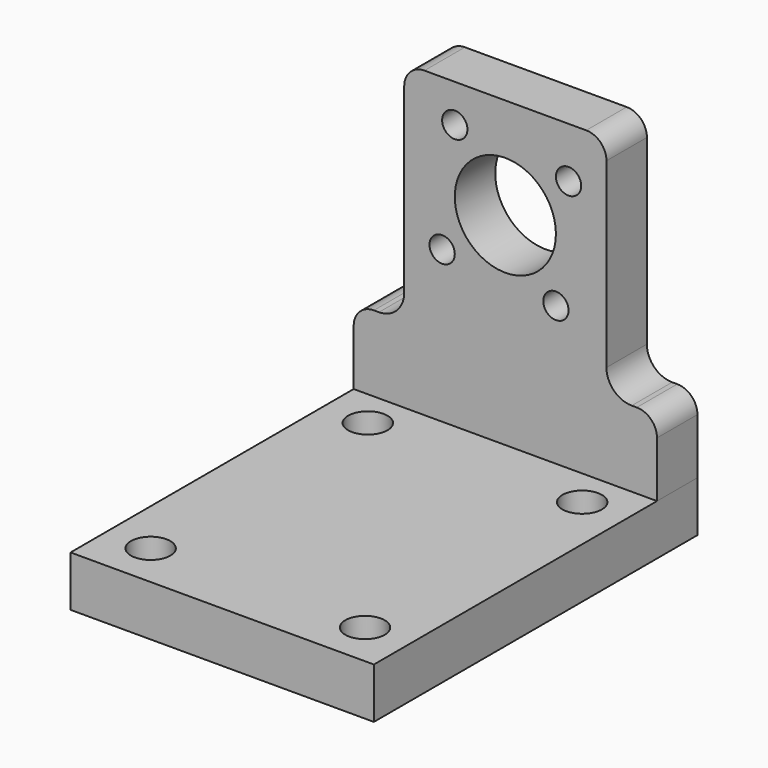
from build123d import *

# Parameters (mm, degrees)
F0_W     = 76.2
F0_H     = 101.6
F0_R     = 4.953
F1_DEPTH = 12.7
F2_R     = 3.175
F2_R_2   = 12.7
F3_DEPTH = 12.7


with BuildPart() as f1:
    # F0 (on Top) → F1 (new body)
    with BuildSketch(Plane.XY):
        with Locations((38.1, -50.8)):
            Rectangle(F0_W, F0_H)
        with Locations((11.176, -90.424)):
            Circle(F0_R, mode=Mode.SUBTRACT)
        with Locations((65.024, -90.424)):
            Circle(F0_R, mode=Mode.SUBTRACT)
        with Locations((11.176, -22.225)):
            Circle(F0_R, mode=Mode.SUBTRACT)
        with Locations((65.024, -22.225)):
            Circle(F0_R, mode=Mode.SUBTRACT)
    extrude(amount=-F1_DEPTH)


with BuildPart() as f3:
    # F2 (on Front) → F3 (new body)
    with BuildSketch(Plane.XZ):
        with BuildLine():
            Line((0, 13.97), (0, 0))
            Line((0, 0), (76.2, 0))
            Line((76.2, 0), (76.2, 13.97))
            ThreePointArc((76.2, 13.97), (74.712102, 17.562102), (71.12, 19.05))
            Line((71.12, 19.05), (69.85, 19.05))
            ThreePointArc((69.85, 19.05), (65.359872, 20.909872), (63.5, 25.4))
            Line((63.5, 25.4), (63.5, 71.12))
            ThreePointArc((63.5, 71.12), (62.012102, 74.712102), (58.42, 76.2))
            Line((58.42, 76.2), (17.78, 76.2))
            ThreePointArc((17.78, 76.2), (14.187898, 74.712102), (12.7, 71.12))
            Line((12.7, 71.12), (12.7, 25.4))
            ThreePointArc((12.7, 25.4), (10.840128, 20.909872), (6.35, 19.05))
            Line((6.35, 19.05), (5.08, 19.05))
            ThreePointArc((5.08, 19.05), (1.487898, 17.562102), (0, 13.97))
        make_face()
        with Locations((50.8, 34.925)):
            Circle(F2_R, mode=Mode.SUBTRACT)
        with Locations((22.225, 38.1)):
            Circle(F2_R, mode=Mode.SUBTRACT)
        with Locations((25.4, 66.675)):
            Circle(F2_R, mode=Mode.SUBTRACT)
        with Locations((38.1, 50.8)):
            Circle(F2_R_2, mode=Mode.SUBTRACT)
        with Locations((53.975, 63.5)):
            Circle(F2_R, mode=Mode.SUBTRACT)
    extrude(amount=F3_DEPTH)


solid = Compound([f1.part, f3.part])
